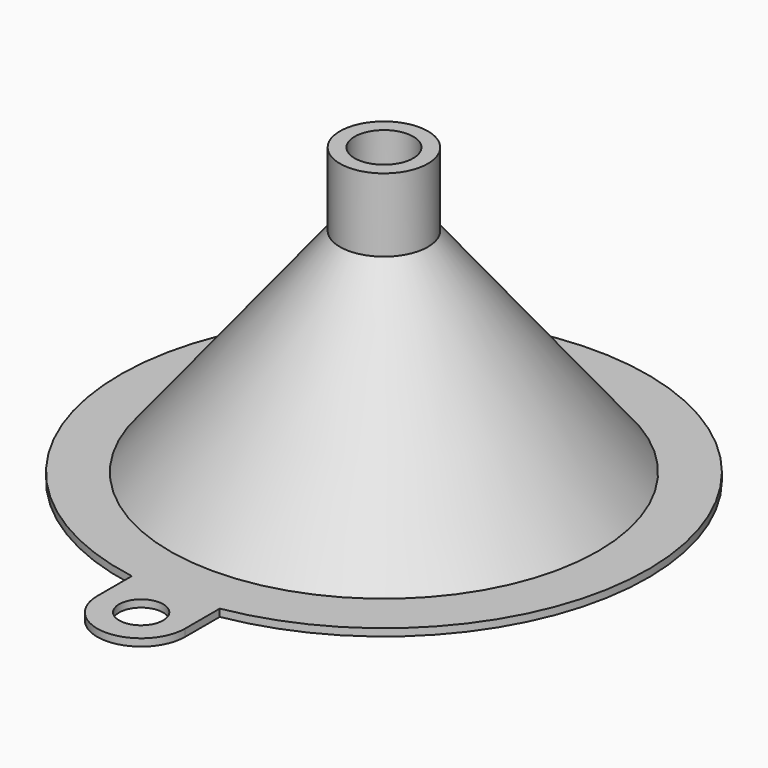
from build123d import *

# Parameters (mm, degrees)
F0_R      = 30
F2_R      = 6
F4_R      = 25
F5_R      = 4
F7_R      = 6
F7_R_2    = 4
F8_DEPTH  = 10
F9_R      = 3
F9_R_2    = 27
F10_DEPTH = 1


with BuildPart() as f3:
    # F0 (on Top) → F3 section 0
    with BuildSketch(Plane.XY):
        Circle(F0_R)
    # F2 (on offset) → F3 section 1
    with BuildSketch(Plane.XY.offset(30)):
        Circle(F2_R)
    loft()

    # F4 (on Top) → F6 section 0
    with BuildSketch(Plane.XY):
        Circle(F4_R)
    # F5 (on offset) → F6 section 1
    with BuildSketch(Plane.XY.offset(30)):
        Circle(F5_R)
    loft(mode=Mode.SUBTRACT)

    # F7 (on face) → F8 (join)
    with BuildSketch(Plane.XY.offset(30)):
        Circle(F7_R)
        Circle(F7_R_2, mode=Mode.SUBTRACT)
    extrude(amount=F8_DEPTH)

    # F9 (on Top) → F10 (join)
    with BuildSketch(Plane.XY):
        with BuildLine():
            ThreePointArc((6, -35.496479), (0, 36), (-6, -35.496479))
            Line((-6, -35.496479), (-6, -41.393877))
            ThreePointArc((-6, -41.393877), (0, -47.393877), (6, -41.393877))
            Line((6, -41.393877), (6, -35.496479))
        make_face()
        with Locations((0, -41.393877)):
            Circle(F9_R, mode=Mode.SUBTRACT)
        Circle(F9_R_2, mode=Mode.SUBTRACT)
    extrude(amount=F10_DEPTH)


solid = f3.part
